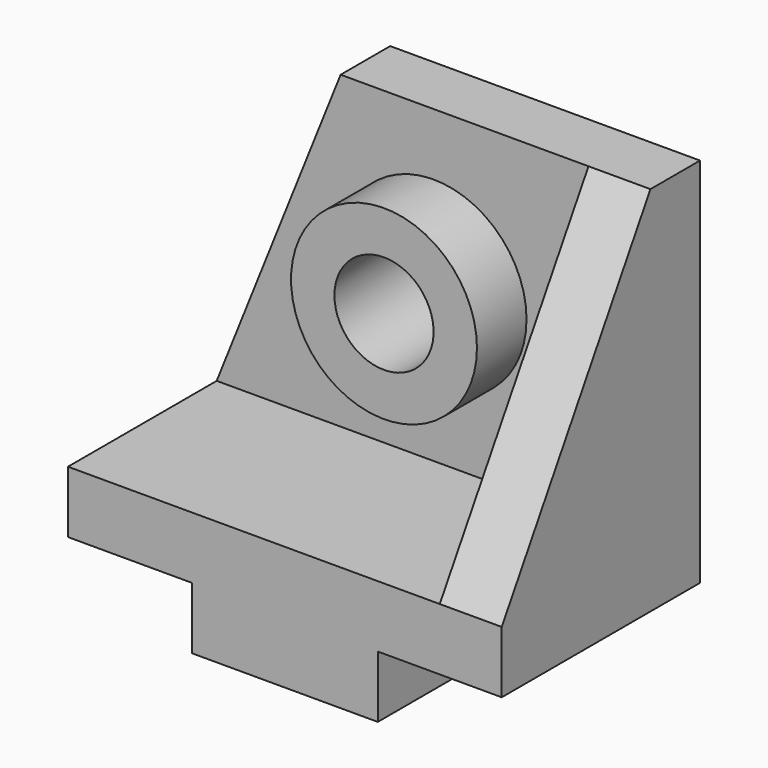
from build123d import *

# Parameters (mm, degrees)
F1_DEPTH = 40
F3_DEPTH = 50
F5_DEPTH = 10
F7_DEPTH = 10
F8_R     = 15
F9_DEPTH = 10
F11_D    = 16


with BuildPart() as f1:
    # F0 (on Front) → F1 (new body)
    with BuildSketch(Plane.XZ):
        Polygon((35, 0), (-35, 0), (-35, -10), (-15, -10), (-15, -20), (15, -20), (15, -10), (35, -10), align=None)
    extrude(amount=F1_DEPTH)

    # F2 (on face) → F3 (join)
    with BuildSketch(Plane.XY):
        Polygon((35, 0), (-35, 0), (-35, -10), (25, -10), (25, -40), (35, -40), align=None)
    extrude(amount=F3_DEPTH)

    # F4 (on face) → F5 (cut, through all)
    with BuildSketch(Plane.XZ.offset(10)):
        Polygon((-15, 50), (-35, 50), (-35, 0), align=None)
    extrude(amount=-F5_DEPTH, mode=Mode.SUBTRACT)

    # F6 (on face) → F7 (cut, through all)
    with BuildSketch(Plane(origin=(25, 0, 0), x_dir=(0, -1, 0), z_dir=(-1, 0, 0))):
        Polygon((40, 50), (10, 50), (40, 0), align=None)
    extrude(amount=-F7_DEPTH, mode=Mode.SUBTRACT)

    # F8 (on face) → F9 (join)
    with BuildSketch(Plane.XZ.offset(10)):
        with Locations((0, 25)):
            Circle(F8_R)
    extrude(amount=F9_DEPTH)

    # F11 (through all)
    with Locations(Plane.XZ.offset(20)):
        with Locations((0, 25)):
            Hole(F11_D / 2)


solid = f1.part
